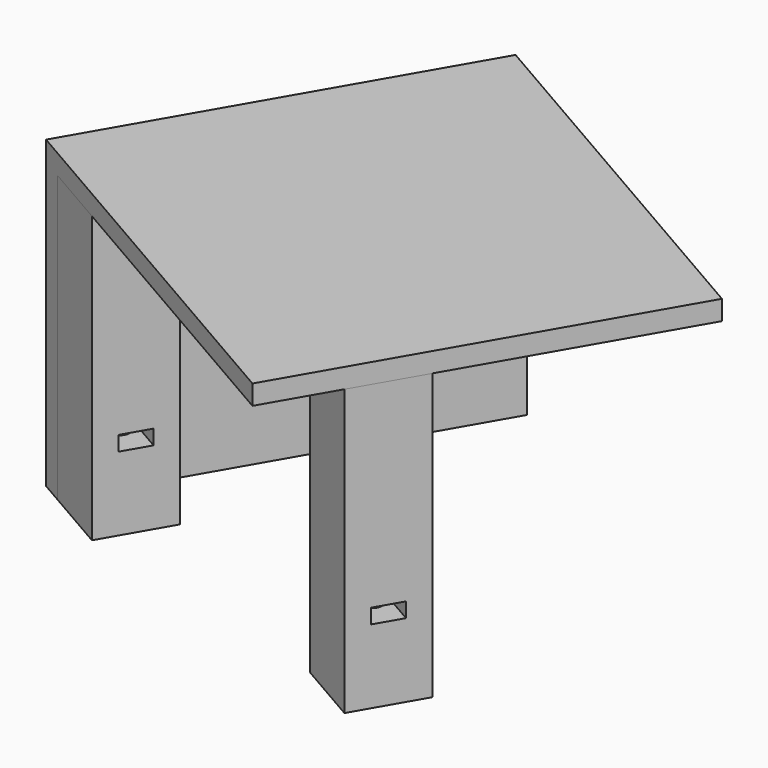
from build123d import *

# Parameters (mm, degrees)
BOX035_W                  = 6
BOX035_H                  = 15
BOX035_DEPTH              = 3
CYLINDER018_R             = 2
CYLINDER018_DEPTH         = 50
BOX_W                     = 15
BOX_H                     = 15
BOX_DEPTH                 = 58
CUT051_PLACEMENT_ANGLE    = 60
CUT052_PLACEMENT_ANGLE    = 60
BOX044_W                  = 80
BOX044_H                  = 5
BOX044_DEPTH              = 58
BOX045_W                  = 80
BOX045_H                  = 90
BOX045_DEPTH              = 4
FUSION090_PLACEMENT_ANGLE = 120


with BuildPart() as nut_hole:
    # Box035 → Box035 (new body)
    with BuildSketch(Plane(origin=(-8.5, 5, 15), x_dir=(1, 0, 0), z_dir=(0, 0, 1))):
        with Locations((3, 7.5)):
            Rectangle(BOX035_W, BOX035_H)
    extrude(amount=BOX035_DEPTH)


with BuildPart() as cylinder:
    # Cylinder018 → Cylinder018 (new body)
    with BuildSketch(Plane(origin=(-5.5, 12, 0), x_dir=(1, 0, 0), z_dir=(0, 0, 1))):
        Circle(CYLINDER018_R)
    extrude(amount=CYLINDER018_DEPTH)


with BuildPart() as cut:
    # Box → Box (new body)
    with BuildSketch(Plane(origin=(-13, 5, 0), x_dir=(1, 0, 0), z_dir=(0, 0, 1))):
        with Locations((7.5, 7.5)):
            Rectangle(BOX_W, BOX_H)
    extrude(amount=BOX_DEPTH)

    # Cut: cut Cylinder
    add(cylinder.part, mode=Mode.SUBTRACT)


with BuildPart() as cut051:
    # Cut051 base: copy of Cut
    add(cut.part)

    # Cut051: cut Nut hole
    add(nut_hole.part, mode=Mode.SUBTRACT)


with BuildPart() as cut051_1:
    # Cut051 placement: moved
    add(cut051.part.moved(Location((-102.160254, 163.841633, 0))).rotate(Axis((-102.160254, 163.841633, 0), (0, 0, 1)), CUT051_PLACEMENT_ANGLE))


with BuildPart() as cut052:
    # Cut052 base: copy of Cut
    add(cut.part)

    # Cut052: cut Nut hole
    add(nut_hole.part, mode=Mode.SUBTRACT)


with BuildPart() as cut052_1:
    # Cut052 placement: moved
    add(cut052.part.moved(Location((-33.77171, 142.497283, 0))).rotate(Axis((-33.77171, 142.497283, 0), (0, 0, 1)), CUT052_PLACEMENT_ANGLE))


with BuildPart() as cube006:
    # Box044 → Box044 (new body)
    with BuildSketch(Plane(origin=(-35, 0, 0), x_dir=(1, 0, 0), z_dir=(0, 0, 1))):
        with Locations((40, 2.5)):
            Rectangle(BOX044_W, BOX044_H)
    extrude(amount=BOX044_DEPTH)


with BuildPart() as fusion092:
    # Box045 → Box045 (new body)
    with BuildSketch(Plane(origin=(-35, 0, 58), x_dir=(1, 0, 0), z_dir=(0, 0, 1))):
        with Locations((40, 45)):
            Rectangle(BOX045_W, BOX045_H)
    extrude(amount=BOX045_DEPTH)

    # Fusion090: union Cube006
    add(cube006.part)


with BuildPart() as fusion092_1:
    # Fusion090 placement: moved
    add(fusion092.part.moved(Location((-107.811, 204.054, 0))).rotate(Axis((-107.811, 204.054, 0), (0, 0, -1)), FUSION090_PLACEMENT_ANGLE))

    # Fusion092: union Cut051, Cut052
    add(cut051_1.part)
    add(cut052_1.part)


solid = fusion092_1.part
